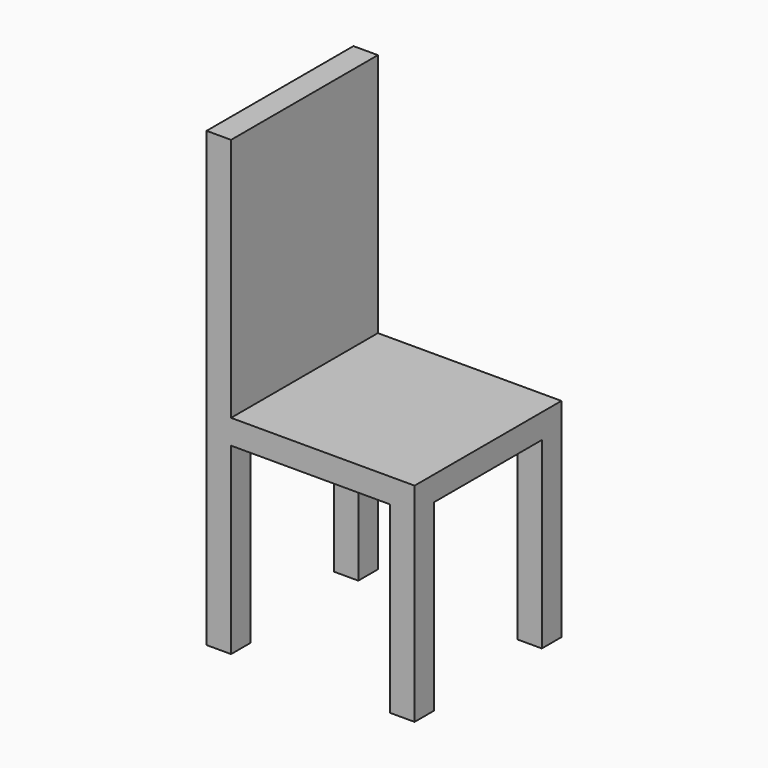
from build123d import *

# Parameters (mm, degrees)
BOX019_W         = 2
BOX019_H         = 2
BOX019_DEPTH     = 15
ARRAY003_X_COUNT = 2
ARRAY003_X_PITCH = 15
ARRAY003_Y_COUNT = 2
ARRAY003_Y_PITCH = 13
BOX018_W         = 25
BOX018_H         = 20
BOX018_DEPTH     = 25
BOX017_W         = 17
BOX017_H         = 15
BOX017_DEPTH     = 22


with BuildPart() as obj1:
    # Box019 → Box019 (new body)
    with BuildSketch(Plane.XY):
        with Locations((1, 1)):
            Rectangle(BOX019_W, BOX019_H)
    extrude(amount=BOX019_DEPTH)

    # Array003 X: obj1_2


with BuildPart() as obj1_1:
    add(obj1.part)
    with Locations(*[(i * ARRAY003_X_PITCH, 0, 0) for i in range(1, ARRAY003_X_COUNT)]):
        add(obj1.part)

    # Array003 Y: obj1_2


with BuildPart() as obj1_2:
    add(obj1_1.part)
    with Locations(*[(0, i * ARRAY003_Y_PITCH, 0) for i in range(1, ARRAY003_Y_COUNT)]):
        add(obj1_1.part)


with BuildPart() as obj2:
    # Box018 → Box018 (new body)
    with BuildSketch(Plane(origin=(2, -2, 2), x_dir=(1, 0, 0), z_dir=(0, 0, 1))):
        with Locations((12.5, 10)):
            Rectangle(BOX018_W, BOX018_H)
    extrude(amount=BOX018_DEPTH)


with BuildPart() as obj3:
    # Box017 → Box017 (new body)
    with BuildSketch(Plane.XY):
        with Locations((8.5, 7.5)):
            Rectangle(BOX017_W, BOX017_H)
    extrude(amount=BOX017_DEPTH)

    # Cut003: cut obj2
    add(obj2.part, mode=Mode.SUBTRACT)


with BuildPart() as obj3_1:
    # Cut003 placement: moved
    add(obj3.part.moved(Location((0, 0, 15))))

    # Fusion005: union obj1
    add(obj1_2.part)


solid = obj3_1.part
